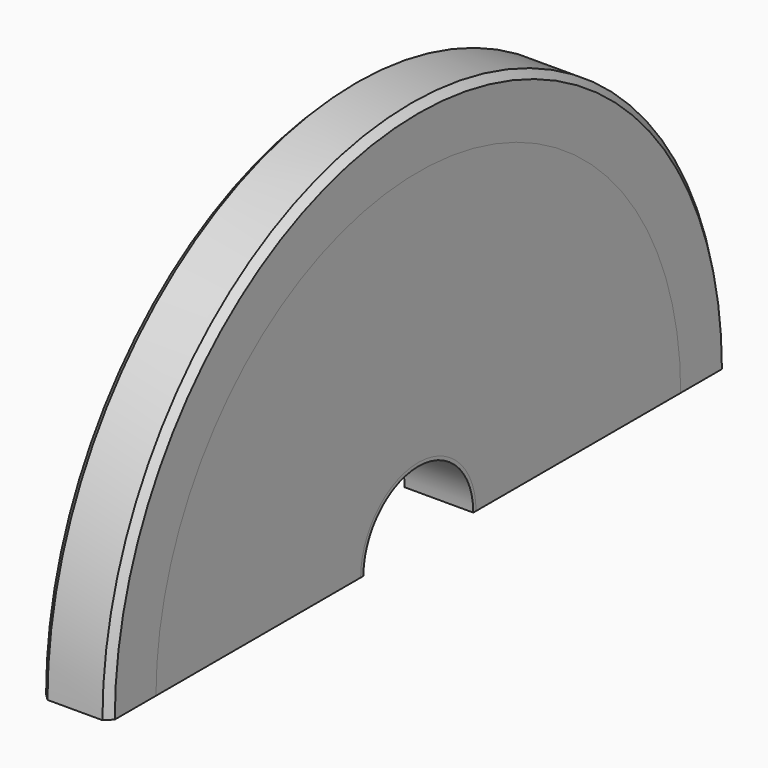
from build123d import *

# Parameters (mm, degrees)
F0_W           = 20
F0_H           = 1
F2_W           = 20
F2_H           = 74.5
F4_W           = 20
F4_H           = 17
F8_SIZE        = 2
F9_W           = 20
F9_H           = 115
F10_DEPTH      = 112.501
F10_DEPTH_BACK = 112.501
F11_R          = 4
F12_DEPTH      = 8
F14_D          = 5
F14_DEPTH      = 15
F14_TIP        = 1.5021515476


with BuildPart() as f1:
    # F0 (on Front) → F1 (revolve)
    with BuildSketch(Plane.XZ):
        with Locations((0, 20.5)):
            Rectangle(F0_W, F0_H)
    revolve(axis=Axis((0, 0, 0), (1, 0, 0)))


with BuildPart() as f3:
    # F2 (on Front) → F3 (revolve)
    with BuildSketch(Plane.XZ):
        with Locations((0, 58.25)):
            Rectangle(F2_W, F2_H)
    revolve(axis=Axis((0, 0, 0), (1, 0, 0)))


with BuildPart() as f5:
    # F4 (on Front) → F5 (revolve)
    with BuildSketch(Plane.XZ):
        with Locations((0, 104)):
            Rectangle(F4_W, F4_H)
    revolve(axis=Axis((0, 0, 0), (1, 0, 0)))

    # F8
    f8_edges = [f5.edges().sort_by_distance(p)[0] for p in [
        (10, 0, -112.5),
        (-10, 0, -112.5),
    ]]
    chamfer(f8_edges, length=F8_SIZE)


with BuildPart() as f10_tool:
    # F9 (on Front) → F10 (new body, two sides)
    with BuildSketch(Plane.XZ) as f10_sk:
        with Locations((0, -57.5)):
            Rectangle(F9_W, F9_H)
    extrude(amount=F10_DEPTH)
    extrude(f10_sk.sketch, amount=-F10_DEPTH_BACK)


with BuildPart() as f1_1:
    add(f1.part)

    # F10: cut by f10_tool
    add(f10_tool.part, mode=Mode.SUBTRACT)


with BuildPart() as f3_1:
    add(f3.part)

    # F10: cut by f10_tool
    add(f10_tool.part, mode=Mode.SUBTRACT)


with BuildPart() as f5_1:
    add(f5.part)

    # F10: cut by f10_tool
    add(f10_tool.part, mode=Mode.SUBTRACT)

    # F11 (on face) → F12 (cut)
    with BuildSketch(Plane(origin=(0, 0, 0), x_dir=(1, 0, 0), z_dir=(0, 0, -1))):
        with Locations((0, 104)):
            Circle(F11_R)
        with Locations((0, -104)):
            Circle(F11_R)
    extrude(amount=-F12_DEPTH, mode=Mode.SUBTRACT)

    # F14
    with Locations(Plane(origin=(0, 0, 8), x_dir=(1, 0, 0), z_dir=(0, 0, -1))):
        with Locations((0, 104), (0, -104)):
            Hole(F14_D / 2, depth=F14_DEPTH)
            with Locations((0, 0, -(F14_DEPTH + F14_TIP / 2))):  # 118° drill point
                Cone(0, F14_D / 2, F14_TIP, mode=Mode.SUBTRACT)


solid = Compound([f1_1.part, f3_1.part, f5_1.part])
